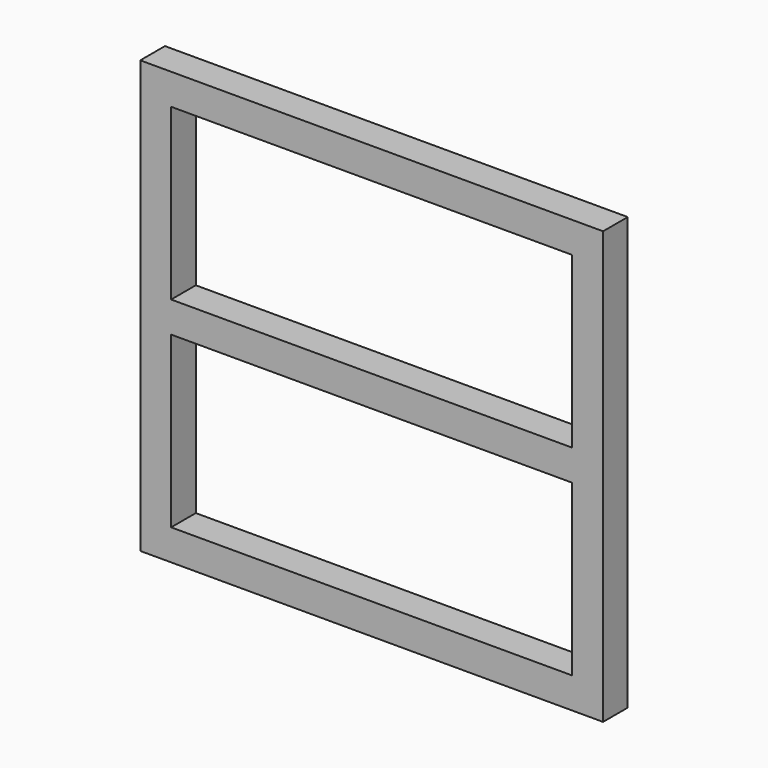
from build123d import *

# Parameters (mm, degrees)
F0_W     = 762
F0_H     = 711.2
F0_W_2   = 660.4
F0_H_2   = 609.6
F1_DEPTH = 25.4
F3_DEPTH = 25.4


with BuildPart() as f1:
    # F0 (on Front) → F1 (new body, symmetric)
    with BuildSketch(Plane.XZ):
        Rectangle(F0_W, F0_H)
        Rectangle(F0_W_2, F0_H_2, mode=Mode.SUBTRACT)
    extrude(amount=F1_DEPTH, both=True)

    # F2 (on Front) → F3 (join, symmetric)
    with BuildSketch(Plane.XZ):
        Polygon((-381, 25.4), (-381, 0), (-381, -25.4), (381, -25.4), (381, 0), (381, 25.4), align=None)
    extrude(amount=F3_DEPTH, both=True)


solid = f1.part
